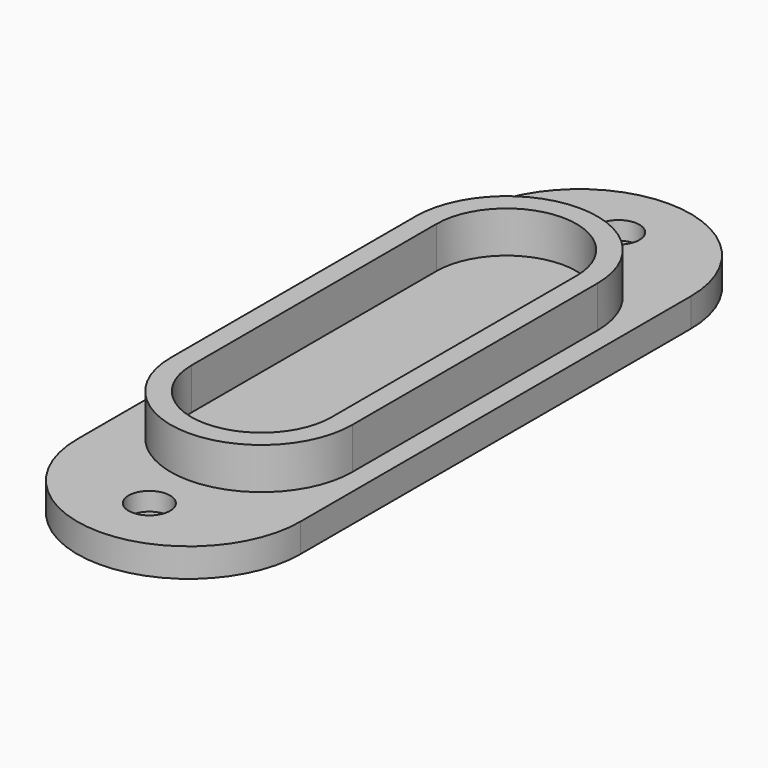
from build123d import *

# Parameters (mm, degrees)
F1_DEPTH = 6.35
F0_R     = 3.175
F2_DEPTH = 2.794
F4_DEPTH = 1.5875
F6_DEPTH = 6.35


with BuildPart() as f1:
    # F0 (on Top) → F1 (new body)
    with BuildSketch(Plane.XY):
        with BuildLine():
            ThreePointArc((13.890625, 23.415625), (0, 37.30625), (-13.890625, 23.415625))
            Line((-13.890625, 23.415625), (-13.890625, -23.415625))
            ThreePointArc((-13.890625, -23.415625), (0, -37.30625), (13.890625, -23.415625))
            Line((13.890625, -23.415625), (13.890625, 23.415625))
        make_face()
    extrude(amount=F1_DEPTH)

    # F0 (on Top) → F2 (join)
    with BuildSketch(Plane.XY):
        with BuildLine():
            ThreePointArc((17.065625, 37.30625), (0, 54.371875), (-17.065625, 37.30625))
            Line((-17.065625, 37.30625), (-17.065625, -37.30625))
            ThreePointArc((-17.065625, -37.30625), (0, -54.371875), (17.065625, -37.30625))
            Line((17.065625, -37.30625), (17.065625, 37.30625))
        make_face()
        with Locations((0, -44.846875)):
            Circle(F0_R, mode=Mode.SUBTRACT)
        with BuildLine():
            Line((-13.890625, -23.415625), (-13.890625, 23.415625))
            ThreePointArc((-13.890625, 23.415625), (0, 37.30625), (13.890625, 23.415625))
            Line((13.890625, 23.415625), (13.890625, -23.415625))
            ThreePointArc((13.890625, -23.415625), (0, -37.30625), (-13.890625, -23.415625))
        make_face(mode=Mode.SUBTRACT)
        with Locations((0, 44.846875)):
            Circle(F0_R, mode=Mode.SUBTRACT)
        with BuildLine():
            ThreePointArc((13.890625, 23.415625), (0, 37.30625), (-13.890625, 23.415625))
            Line((-13.890625, 23.415625), (-13.890625, -23.415625))
            ThreePointArc((-13.890625, -23.415625), (0, -37.30625), (13.890625, -23.415625))
            Line((13.890625, -23.415625), (13.890625, 23.415625))
        make_face()
    extrude(amount=-F2_DEPTH)

    # F3 (on face) → F4 (join)
    with BuildSketch(Plane(origin=(0, 0, -2.794), x_dir=(1, 0, 0), z_dir=(0, 0, -1))):
        with BuildLine():
            ThreePointArc((17.065625, 37.30625), (0, 54.371875), (-17.065625, 37.30625))
            Line((-17.065625, 37.30625), (-17.065625, -37.30625))
            ThreePointArc((-17.065625, -37.30625), (0, -54.371875), (17.065625, -37.30625))
            Line((17.065625, -37.30625), (17.065625, 37.30625))
        make_face()
    extrude(amount=F4_DEPTH)

    # F5 (on face) → F6 (cut, through all)
    with BuildSketch(Plane.XY.offset(6.35)):
        with BuildLine():
            ThreePointArc((10.715625, 23.415625), (0, 34.13125), (-10.715625, 23.415625))
            Line((-10.715625, 23.415625), (-10.715625, -23.415625))
            ThreePointArc((-10.715625, -23.415625), (0, -34.13125), (10.715625, -23.415625))
            Line((10.715625, -23.415625), (10.715625, 23.415625))
        make_face()
    extrude(amount=-F6_DEPTH, mode=Mode.SUBTRACT)


solid = f1.part
